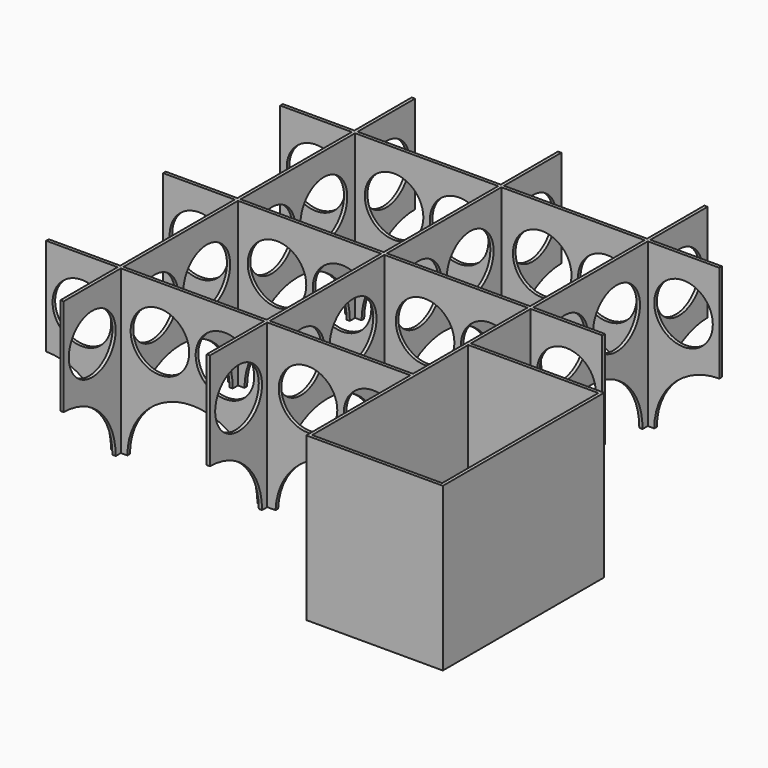
from build123d import *

# Parameters (mm, degrees)
F0_W      = 1
F0_H      = 22
F0_W_2    = 22
F0_H_2    = 1
F0_W_3    = 44
F0_H_3    = 44
F0_H_4    = 23
F1_DEPTH  = 50
F2_R      = 9
F3_DEPTH  = 500
F4_R      = 9
F5_DEPTH  = 500
F6_R      = 9
F7_DEPTH  = 500
F8_R      = 9
F9_DEPTH  = 500
F10_R     = 9
F11_DEPTH = 500
F12_R     = 9
F13_DEPTH = 500
F14_R     = 9
F15_DEPTH = 500
F16_R     = 9
F17_DEPTH = 400
F18_R     = 12.5
F19_DEPTH = 1


with BuildPart() as f1:
    # F0 (on Top) → F1 (new body)
    with BuildSketch(Plane.XY):
        with Locations((-45, 56.5)):
            Rectangle(F0_W, F0_H)
        with Locations((-56.5, 45)):
            Rectangle(F0_W_2, F0_H_2)
        with Locations((-22.5, 45)):
            Rectangle(F0_W_3, F0_H_2)
        with Locations((-45, 22.5)):
            Rectangle(F0_W, F0_H_3)
        with Locations((-45, 45)):
            Rectangle(F0_W, F0_H_2)
        with Locations((0, 56.5)):
            Rectangle(F0_W, F0_H)
        Polygon((0.5, 45.5), (0.5, 44.5), (44.5, 44.5), (45.5, 44.5), (67.5, 44.5), (67.5, 45.5), (45.5, 45.5), (44.5, 45.5), align=None)
        with Locations((45, 56.5)):
            Rectangle(F0_W, F0_H)
        with Locations((0, 45)):
            Rectangle(F0_W, F0_H_2)
        with Locations((0, 22.5)):
            Rectangle(F0_W, F0_H_3)
        with Locations((45, 22.5)):
            Rectangle(F0_W, F0_H_3)
        Polygon((0.5, 0.5), (0.5, -0.5), (44.5, -0.5), (45.5, -0.5), (67.5, -0.5), (67.5, 0.5), (45.5, 0.5), (44.5, 0.5), align=None)
        with Locations((45, -12)):
            Rectangle(F0_W, F0_H_4)
        Rectangle(F0_W, F0_H_2)
        with Locations((-22.5, 0)):
            Rectangle(F0_W_3, F0_H_2)
        with Locations((0, -22.5)):
            Rectangle(F0_W, F0_H_3)
        with Locations((-56.5, 0)):
            Rectangle(F0_W_2, F0_H_2)
        with Locations((-45, -22.5)):
            Rectangle(F0_W, F0_H_3)
        with Locations((-45, 0)):
            Rectangle(F0_W, F0_H_2)
        with Locations((-56.5, -45)):
            Rectangle(F0_W_2, F0_H_2)
        with Locations((-45, -56.5)):
            Rectangle(F0_W, F0_H)
        with Locations((-45, -45)):
            Rectangle(F0_W, F0_H_2)
        with Locations((-22.5, -45)):
            Rectangle(F0_W_3, F0_H_2)
        with Locations((0, -56.5)):
            Rectangle(F0_W, F0_H)
        with Locations((22.5, -45)):
            Rectangle(F0_W_3, F0_H_2)
        with Locations((0, -45)):
            Rectangle(F0_W, F0_H_2)
        Polygon((44.5, -44.5), (44.5, -45.5), (44.5, -85.5), (86.5, -85.5), (86.5, -23.5), (45.5, -23.5), (44.5, -23.5), align=None)
        Polygon((45.5, -45.4983576005), (45.5, -44.4983576005), (45.5, -24.5), (85.5, -24.5), (85.5, -84.5), (45.5, -84.5), align=None, mode=Mode.SUBTRACT)
    extrude(amount=F1_DEPTH)

    # F2 (on face) → F3 (cut)
    with BuildSketch(Plane.XZ.offset(45.5)):
        with Locations((-32.5, 34)):
            Circle(F2_R)
        with Locations((-12.5, 34)):
            Circle(F2_R)
        with BuildLine():
            Line((-42.5, 0), (-2.5, 0))
            ThreePointArc((-2.5, 0), (-22.5, 20), (-42.5, 0))
        make_face()
    extrude(amount=-F3_DEPTH, mode=Mode.SUBTRACT)

    # F4 (on face) → F5 (cut)
    with BuildSketch(Plane.XZ.offset(45.5)):
        with Locations((13.0384618044, 33.2217942973)):
            Circle(F4_R)
        with Locations((33.0384618044, 33.2217942973)):
            Circle(F4_R)
        with BuildLine():
            Line((3.0536076422, 0), (43.0233159666, 0))
            ThreePointArc((43.0233159666, 0), (23.0384618044, 19.2217942973), (3.0536076422, 0))
        make_face()
    extrude(amount=-F5_DEPTH, mode=Mode.SUBTRACT)

    # F6 (on face) → F7 (cut)
    with BuildSketch(Plane.XZ.offset(45.5)):
        with Locations((-56.5, 34)):
            Circle(F6_R)
        with BuildLine():
            ThreePointArc((-67.5, 20), (-81.6421356237, -14.1421356237), (-47.5, 0))
            ThreePointArc((-47.5, 0), (-53.3578643763, 14.1421356237), (-67.5, 20))
        make_face()
    extrude(amount=-F7_DEPTH, mode=Mode.SUBTRACT)

    # F8 (on face) → F9 (cut)
    with BuildSketch(Plane.YZ.offset(0.5)):
        with Locations((-12.5, 34)):
            Circle(F8_R)
        with BuildLine():
            Line((-42.5, 0), (-2.5, 0))
            ThreePointArc((-2.5, 0), (-22.5, 20), (-42.5, 0))
        make_face()
        with Locations((-32.5, 34)):
            Circle(F8_R)
    extrude(amount=-F9_DEPTH, mode=Mode.SUBTRACT)

    # F10 (on face) → F11 (cut)
    with BuildSketch(Plane.YZ.offset(0.5)):
        with Locations((-56.5, 34)):
            Circle(F10_R)
        with BuildLine():
            Line((-67.5, 0), (-47.5, 0))
            ThreePointArc((-47.5, 0), (-53.3578643763, 14.1421356237), (-67.5, 20))
            Line((-67.5, 20), (-67.5, 0))
        make_face()
    extrude(amount=-F11_DEPTH, mode=Mode.SUBTRACT)

    # F12 (on face) → F13 (cut)
    with BuildSketch(Plane.YZ.offset(45.5)):
        with Locations((12.5, 34)):
            Circle(F12_R)
        with Locations((32.5, 34)):
            Circle(F12_R)
        with BuildLine():
            Line((2.5, 0), (42.5, 0))
            ThreePointArc((42.5, 0), (22.5, 20), (2.5, 0))
        make_face()
    extrude(amount=-F13_DEPTH, mode=Mode.SUBTRACT)

    # F14 (on face) → F15 (cut)
    with BuildSketch(Plane.YZ.offset(45.5)):
        with BuildLine():
            Line((67.5, 0), (67.5, 20))
            ThreePointArc((67.5, 20), (53.3578643763, 14.1421356237), (47.5, 0))
            Line((47.5, 0), (67.5, 0))
        make_face()
        with Locations((56.5, 34)):
            Circle(F14_R)
    extrude(amount=-F15_DEPTH, mode=Mode.SUBTRACT)

    # F16 (on face) → F17 (cut)
    with BuildSketch(Plane.XZ.offset(0.5)):
        with Locations((56.5, 34)):
            Circle(F16_R)
        with BuildLine():
            Line((67.5, 0), (67.5, 20))
            ThreePointArc((67.5, 20), (53.3578643763, 14.1421356237), (47.5, 0))
            Line((47.5, 0), (67.5, 0))
        make_face()
    extrude(amount=-F17_DEPTH, mode=Mode.SUBTRACT)

    # F18 (on face) → F19 (cut)
    with BuildSketch(Plane(origin=(44.5, 0, 0), x_dir=(0, -1, 0), z_dir=(-1, 0, 0))):
        with BuildLine():
            Line((24.25, 0), (43.75, 0))
            ThreePointArc((43.75, 0), (34, 9.75), (24.25, 0))
        make_face()
        with Locations((59.5, 0)):
            Circle(F18_R)
    extrude(amount=-F19_DEPTH, mode=Mode.SUBTRACT)


solid = f1.part
